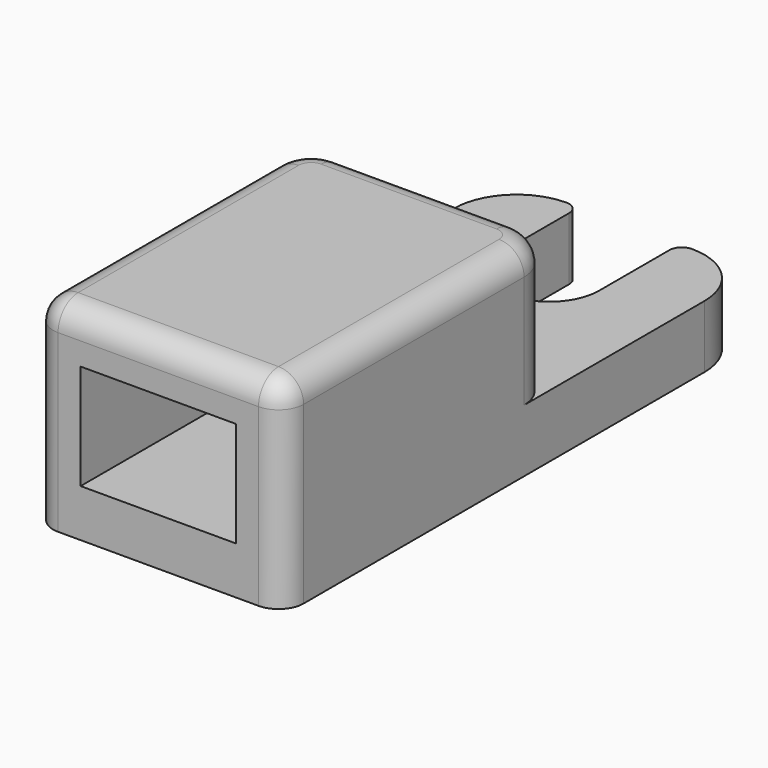
from build123d import *

# Parameters (mm, degrees)
F1_DEPTH = 5
F3_DEPTH = 11
F4_W     = 12.4
F4_H     = 8.4
F5_DEPTH = 20
F6_R     = 2


with BuildPart() as f1:
    # F0 (on Top) → F1 (new body)
    with BuildSketch(Plane.XY):
        with BuildLine():
            Line((0, 42), (0, 0))
            Line((0, 0), (20, 0))
            Line((20, 0), (20, 42))
            ThreePointArc((20, 42), (18.535534, 45.535534), (15, 47))
            ThreePointArc((15, 47), (14.292893, 46.707107), (14, 46))
            Line((14, 46), (14, 39))
            ThreePointArc((14, 39), (10, 35), (6, 39))
            Line((6, 39), (6, 46))
            ThreePointArc((6, 46), (5.707107, 46.707107), (5, 47))
            ThreePointArc((5, 47), (1.464466, 45.535534), (0, 42))
        make_face()
    extrude(amount=F1_DEPTH)

    # F2 (on face) → F3 (join)
    with BuildSketch(Plane.XY.offset(5)):
        with BuildLine():
            Line((0, 24), (0, 0))
            Line((0, 0), (20, 0))
            Line((20, 0), (20, 24))
            ThreePointArc((20, 24), (19.12132, 26.12132), (17, 27))
            Line((17, 27), (3, 27))
            ThreePointArc((3, 27), (0.87868, 26.12132), (0, 24))
        make_face()
    extrude(amount=F3_DEPTH)

    # F4 (on face) → F5 (cut)
    with BuildSketch(Plane.XZ):
        with Locations((10, 8)):
            Rectangle(F4_W, F4_H)
    extrude(amount=-F5_DEPTH, mode=Mode.SUBTRACT)

    # F6
    f6_edges = [f1.edges().sort_by_distance(p)[0] for p in [
        (0, 0, 8),
        (20, 0, 8),
        (20, 12, 16),
        (10, 0, 16),
    ]]
    fillet(f6_edges, radius=F6_R)


solid = f1.part
